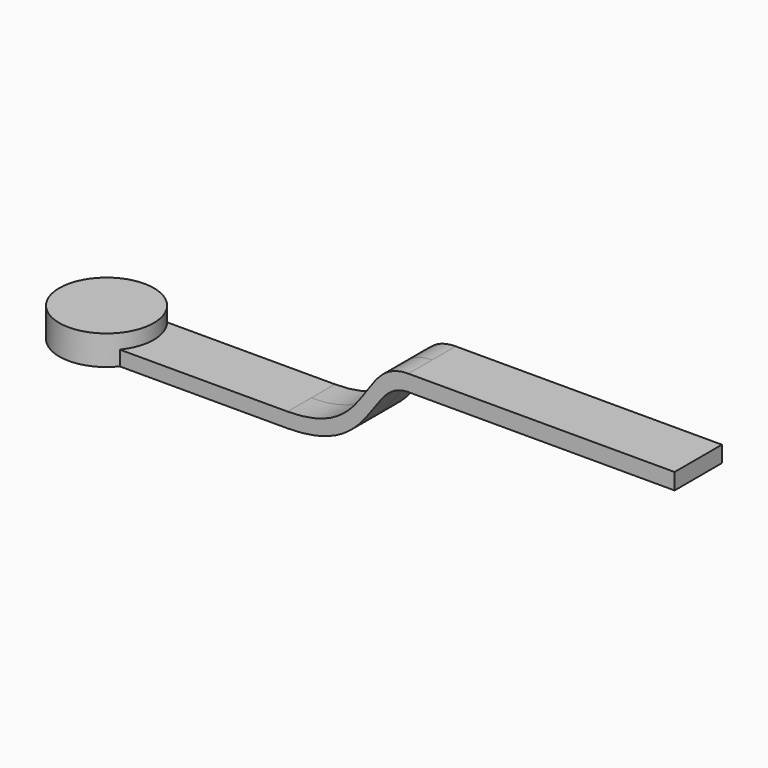
from build123d import *

# Parameters (mm, degrees)
F0_W     = 87.8377447401
F0_H     = 6.35
F0_W_2   = 114.3
F0_H_2   = 6.9760140031
F1_DEPTH = 12.7


with BuildPart() as f1:
    # F0 (on Front) → F1 (new body, symmetric)
    with BuildSketch(Plane.XZ):
        with Locations((54.0722241176, -3.175)):
            Rectangle(F0_W, F0_H)
        with BuildLine():
            add(Edge.make_bspline(
                [(97.9910964877, 0), (135.2877169847, 0), (127.9766007824, 31.2006380408), (149.8604118824, 31.2006380408)],
                knots=[0, 0, 0, 0, 60.5302048045, 60.5302048045, 60.5302048045, 60.5302048045], degree=3))
            Line((97.9910964877, 0), (97.9910964877, -6.35))
            add(Edge.make_bspline(
                [(97.9910964877, -6.35), (136.9185000658, -6.35), (132.026180625, 24.2246240377), (149.8604118824, 24.2246240377)],
                knots=[0, 0, 0, 0, 60.2099120957, 60.2099120957, 60.2099120957, 60.2099120957], degree=3))
            Line((149.8604118824, 24.2246240377), (149.8604118824, 31.2006380408))
        make_face()
        with Locations((207.0104118824, 27.7126310393)):
            Rectangle(F0_W_2, F0_H_2)
    extrude(amount=F1_DEPTH, both=True)

    # F0 (on Front) → F2 (revolve)
    with BuildSketch(Plane.XZ):
        Polygon((10.1533517476, 6.35), (-10.1533517476, 6.35), (-10.1533517476, -6.35), (10.1533517476, -6.35), (10.1533517476, 0), align=None)
    revolve(axis=Axis((10.1533517476, 0, 0), (0, 0, -1)))


solid = f1.part
